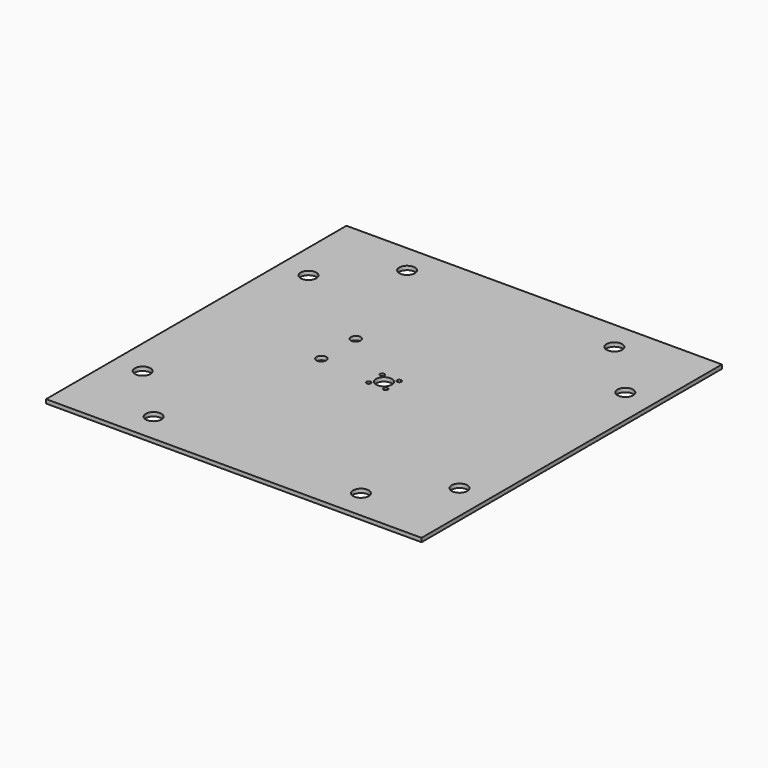
from build123d import *

# Parameters (mm, degrees)
F0_W     = 304.8
F0_H     = 304.8
F0_R     = 6.35
F0_R_2   = 1.7526
F0_R_3   = 3.96875
F1_DEPTH = 3.175


with BuildPart() as f1:
    # F0 (on Top) → F1 (new body)
    with BuildSketch(Plane.XY):
        Rectangle(F0_W, F0_H)
        with Locations((-84.1375, -128.5875)):
            Circle(F0_R, mode=Mode.SUBTRACT)
        with Locations((-128.5875, -84.1375)):
            Circle(F0_R, mode=Mode.SUBTRACT)
        with Locations((-6.914797, -6.914797)):
            Circle(F0_R_2, mode=Mode.SUBTRACT)
        with Locations((84.13242, -128.5875)):
            Circle(F0_R, mode=Mode.SUBTRACT)
        with Locations((128.5875, -84.1375)):
            Circle(F0_R, mode=Mode.SUBTRACT)
        with Locations((6.914797, -6.914797)):
            Circle(F0_R_2, mode=Mode.SUBTRACT)
        with Locations((-50.8, 0)):
            Circle(F0_R_3, mode=Mode.SUBTRACT)
        with Locations((-50.8, 34.925)):
            Circle(F0_R_3, mode=Mode.SUBTRACT)
        with Locations((-6.914797, 6.914797)):
            Circle(F0_R_2, mode=Mode.SUBTRACT)
        with Locations((-128.5875, 84.1375)):
            Circle(F0_R, mode=Mode.SUBTRACT)
        with Locations((-84.1375, 128.5875)):
            Circle(F0_R, mode=Mode.SUBTRACT)
        Circle(F0_R, mode=Mode.SUBTRACT)
        with Locations((6.914797, 6.914797)):
            Circle(F0_R_2, mode=Mode.SUBTRACT)
        with Locations((128.5875, 84.1375)):
            Circle(F0_R, mode=Mode.SUBTRACT)
        with Locations((84.1375, 128.6002)):
            Circle(F0_R, mode=Mode.SUBTRACT)
    extrude(amount=F1_DEPTH)


solid = f1.part
